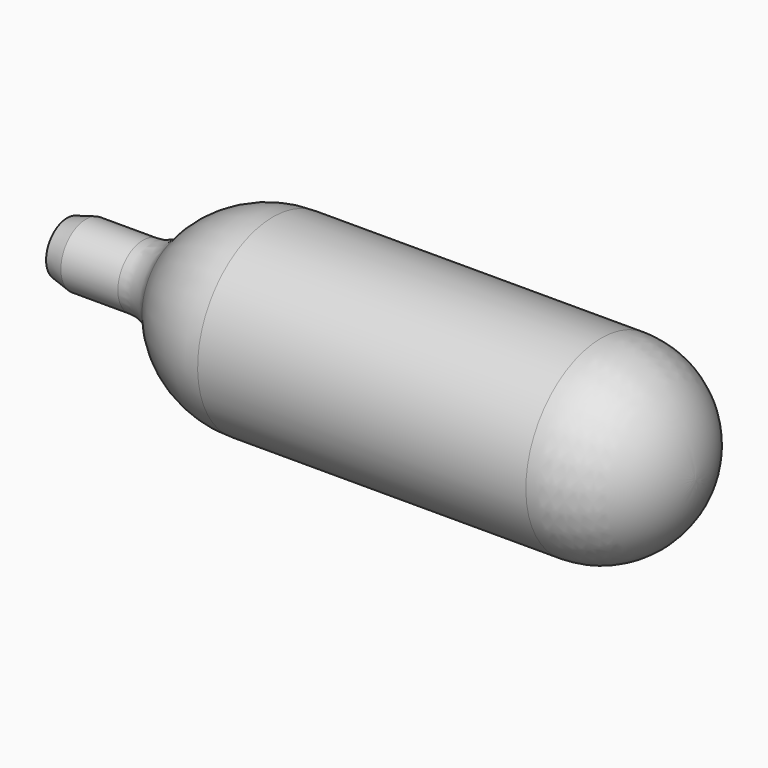
from build123d import *

# Parameters (mm, degrees)
F2_R     = 5.08
F3_SIZE2 = 0.510443
F3_SIZE  = 1.905


with BuildPart() as f1:
    # F0 (on Front) → F1 (revolve)
    with BuildSketch(Plane.XZ):
        with BuildLine():
            Line((0, 3.175), (0, 0))
            Line((0, 0), (63.5, 0))
            ThreePointArc((63.5, 0), (60.710192, 6.735192), (53.975, 9.525))
            Line((53.975, 9.525), (20.805025, 9.525))
            ThreePointArc((20.805025, 9.525), (14.711283, 7.812062), (10.402513, 3.175))
            Line((10.402513, 3.175), (0, 3.175))
        make_face()
    revolve(axis=Axis((31.75, 0, 0), (-1, 0, 0)))

    # F2
    f2_edges = [f1.edges().sort_by_distance(p)[0] for p in [
        (10.402513, 0, -3.175),
    ]]
    fillet(f2_edges, radius=F2_R)

    # F3
    f3_edges = [f1.edges().sort_by_distance(p)[0] for p in [
        (0, 0, -3.175),
    ]]
    chamfer(f3_edges, length=F3_SIZE, length2=F3_SIZE2)


solid = f1.part
